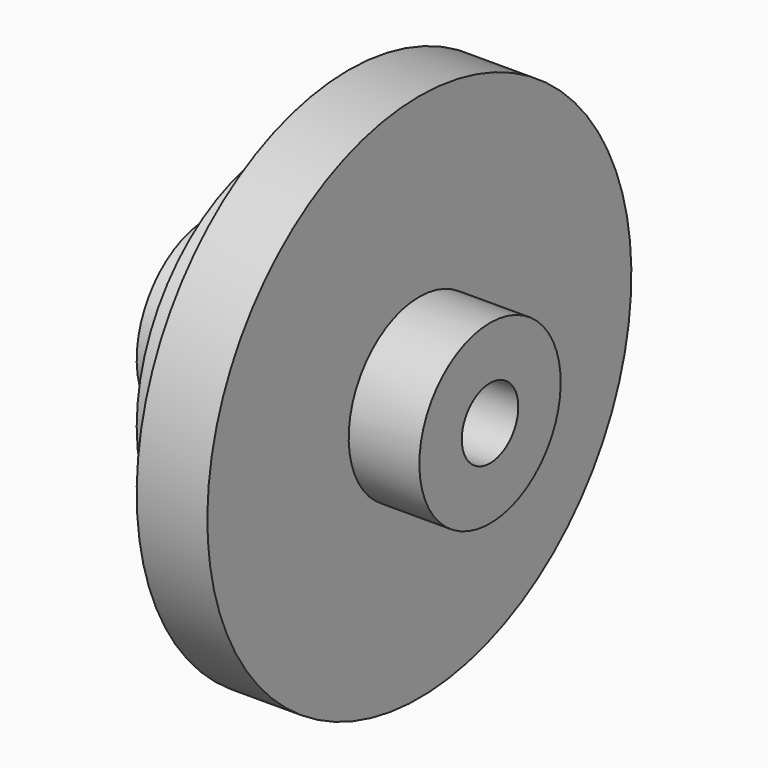
from build123d import *

# Parameters (mm, degrees)
F2_R     = 6.35
F3_DEPTH = 50.8


with BuildPart() as f1:
    # F0 (on Front) → F1 (revolve)
    with BuildSketch(Plane.XZ):
        Polygon((-50.8, 15.875), (-50.8, 0), (0, 0), (0, 15.875), (-12.7, 15.875), (-12.7, 47.625), (-25.4, 47.625), (-25.4, 31.75), (-38.1, 31.75), (-38.1, 15.875), align=None)
    revolve(axis=Axis((-29.969632, 0, 0), (-1, 0, 0)))

    # F2 (on face) → F3 (cut)
    with BuildSketch(Plane(origin=(-50.8, 0, 0), x_dir=(0, -1, 0), z_dir=(-1, 0, 0))):
        Circle(F2_R)
    extrude(amount=-F3_DEPTH, mode=Mode.SUBTRACT)


solid = f1.part
